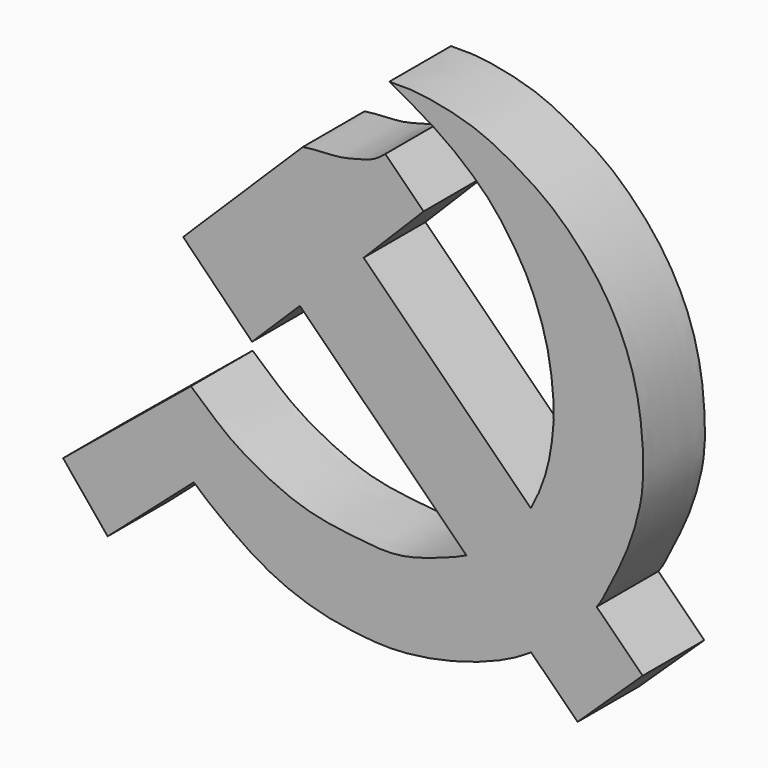
from build123d import *

# Parameters (mm, degrees)
F2_DEPTH = 6.35
F3_DEPTH = 6.35
F4_SCALE = 1.35


with BuildPart() as f2:
    # F1 (on Front) → F2 (new body)
    with BuildSketch(Plane.XZ):
        with BuildLine():
            Line((2.0100830588, -1.8745424459), (-7.8472765163, -11.6076041013))
            Line((-7.8472765163, -11.6076041013), (-2.1699381241, -17.3574460259))
            Line((-2.1699381241, -17.3574460259), (1.7674344249, -13.4697223929))
            Line((1.7674344249, -13.4697223929), (24.6342346072, -36.2006090581))
            Line((24.6342346072, -36.2006090581), (29.9926754087, -31.1118494719))
            Line((29.9926754087, -31.1118494719), (7.0203917258, -8.276106269))
            Line((7.0203917258, -8.276106269), (11.9528423377, -3.3141633316))
            Line((11.9528423377, -3.3141633316), (8.7988910946, -0.1789582447))
            add(Edge.make_bspline(
                [(8.7988910946, -0.1789582447), (8.4915822271, -0.4268185401), (7.884025876, -0.9168437644), (6.812984834, -1.2110842235), (5.7607040583, -1.4951452719), (4.9636876382, -1.6474868702), (4.0066335683, -1.7029838445), (2.8224195307, -1.765104938), (2.3226285635, -1.8299656868), (2.1049594849, -1.8610107088), (2.0100830588, -1.8745424459)],
                knots=[0, 0, 0, 0, 0.1457280341, 0.28810751, 0.428717987, 0.5493474346, 0.6832636078, 0.8310512812, 0.9263595421, 1, 1, 1, 1], degree=3))
        make_face()
    extrude(amount=F2_DEPTH)

    # F0 (on Front) → F3 (join)
    with BuildSketch(Plane.XZ):
        with BuildLine():
            Line((-7.2056818753, -22.2188271582), (-17.7342074227, -30.8576199099))
            Line((-17.7342074227, -30.8576199099), (-14.0623990446, -35.3326350451))
            Line((-14.0623990446, -35.3326350451), (-6.9682779722, -29.1031114757))
            add(Edge.make_bspline(
                [(9.1296667233, 5.1718582399), (9.6781859866, 5.1849146526), (10.8194790728, 5.21208087), (12.7441165618, 4.9857473803), (15.2451481768, 4.4360080826), (17.6618182877, 3.5589302995), (21.2322086722, 1.4851892372), (23.4660087366, -0.316831433), (26.2144792862, -3.2140079757), (28.4320774378, -6.9109964982), (29.789536096, -11.1586098492), (30.1558781606, -16.0372078457), (29.8627060621, -18.955121982), (28.7071599618, -22.7844601499), (27.034328063, -25.8390843438), (26.3606630932, -27.4026946013), (23.6298018345, -29.9778777076), (20.9568468096, -32.5509410352), (17.327323492, -34.3053388548), (13.401554369, -35.4676447014), (9.4023284242, -36.0138419384), (5.7565353723, -35.6495486641), (2.6399914127, -35.0224045555), (-0.4311152441, -33.8045805217), (-2.8850770783, -32.3142704604), (-5.4549392551, -30.4401473194), (-6.503821434, -29.5134591608), (-6.9682779722, -29.1031114757)],
                knots=[0, 0, 0, 0, 0.0285814378, 0.0594688273, 0.0945167283, 0.1306066312, 0.1751428462, 0.2131940739, 0.2568893258, 0.3028820712, 0.3500947134, 0.398556368, 0.436666533, 0.4810586728, 0.5219866905, 0.550708259, 0.5927056098, 0.6361496757, 0.6802075239, 0.7251798006, 0.7696857552, 0.8119103586, 0.8514788828, 0.8913587568, 0.9293857799, 0.9687312485, 1, 1, 1, 1], degree=3))
            add(Edge.make_bspline(
                [(-7.2056818753, -22.2188271582), (-6.3812466924, -22.9073918829), (-4.7244781605, -24.4822778909), (-2.0462273712, -26.2689526242), (2.2202454087, -28.2955457327), (6.3770617171, -28.7636613904), (9.5887887908, -29.1345162933), (12.2879580559, -28.3489648275), (13.6092182696, -27.8673694913), (15.6078973916, -27.1684028035), (18.4760859446, -25.207066996), (20.9098618576, -22.1725260541), (22.3129541159, -18.499471744), (22.6338520936, -15.6483912952), (22.7344537145, -14.2248144523), (22.4281637557, -10.7638092583), (21.6419035573, -7.9083843186), (20.5201993879, -5.1119392679), (18.6442207253, -2.2221609046), (17.0292486023, -0.2885415089), (14.9099308633, 1.6077778026), (12.4382943713, 3.3637327802), (10.270746931, 4.5482715464), (9.1296667233, 5.1718582399)],
                knots=[0, 0, 0, 0, 0.049491434, 0.098674406, 0.157645306, 0.2136724525, 0.262894252, 0.3075182277, 0.3396115835, 0.3783484473, 0.4289933244, 0.4830380296, 0.5374641382, 0.5824599205, 0.6151650415, 0.6651165227, 0.7128738028, 0.7601366968, 0.8104970919, 0.8539369629, 0.8992772275, 0.9468473633, 1, 1, 1, 1], degree=3))
        make_face()
    extrude(amount=F3_DEPTH)


with BuildPart() as f2_1:
    # F4: moved
    add(f2.part.scale(F4_SCALE))


solid = f2_1.part
